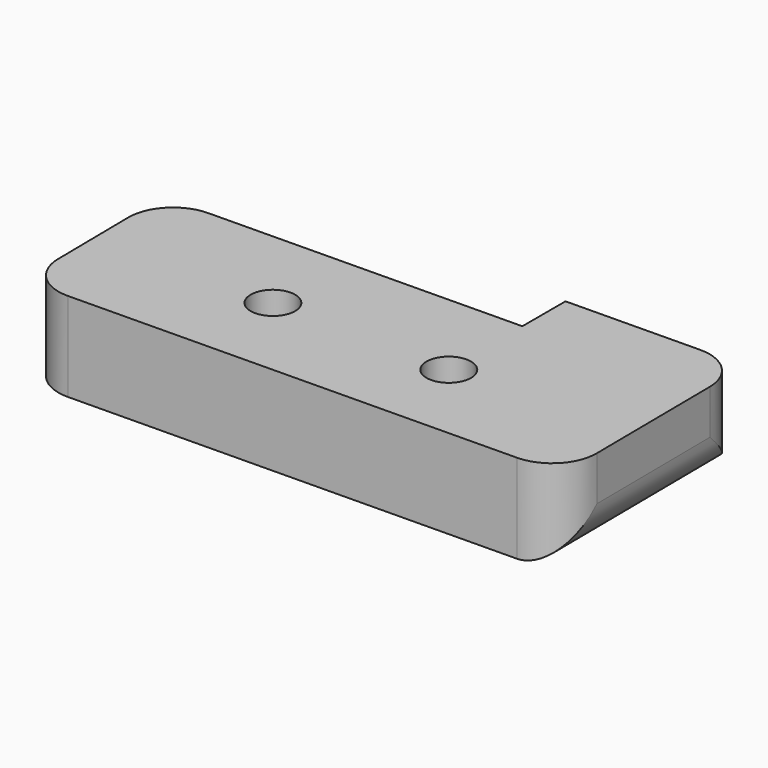
from build123d import *

# Parameters (mm, degrees)
F1_DEPTH = 25.4
F2_R     = 12.7
F4_D     = 12.7


with BuildPart() as f1:
    # F0 (on Top) → F1 (new body)
    with BuildSketch(Plane.XY):
        Polygon((-0.620216, 50.796214), (0, 0), (152.388641, 1.860649), (151.768425, 68.068433), (100.972211, 67.448217), (100.972211, 52.036646), align=None)
    extrude(amount=F1_DEPTH)

    # F2
    f2_edges = [f1.edges().sort_by_distance(p)[0] for p in [
        (-0.620216, 50.796214, 12.7),
        (152.078533, 34.964541, 0),
        (152.388641, 1.860649, 12.7),
        (0, 0, 12.7),
        (151.768425, 68.068433, 12.7),
    ]]
    fillet(f2_edges, radius=F2_R)

    # F4 (through all)
    with Locations(Plane.XY.offset(25.4)):
        with Locations((101.289892, 25.398107), (50.489892, 26.098501)):
            Hole(F4_D / 2)


solid = f1.part
